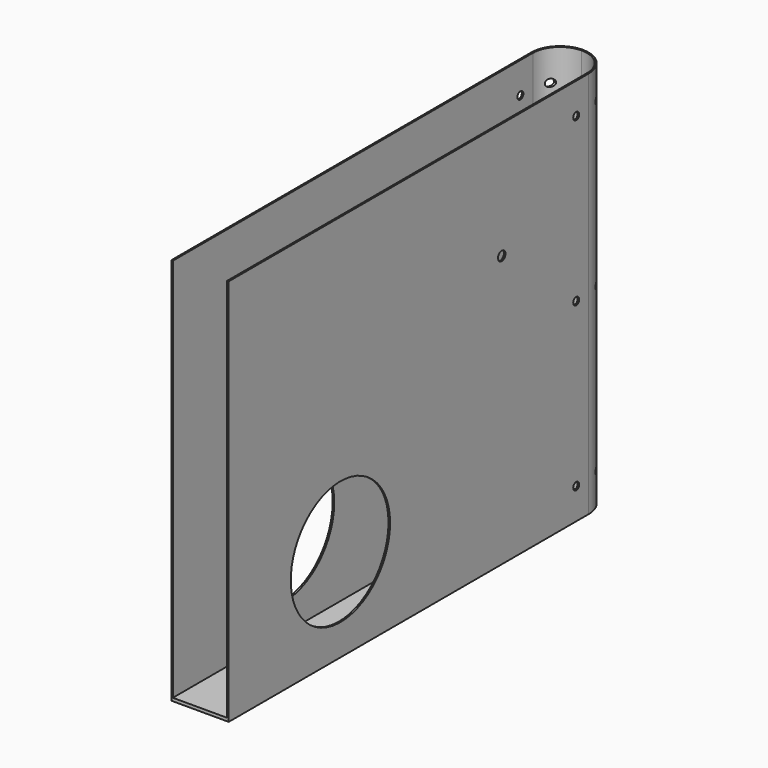
from build123d import *

# Parameters (mm, degrees)
F1_DEPTH      = 250
F2_W          = 272.5
F2_H          = 2
F3_DEPTH      = 37
F5_DEPTH      = 37.001
F6_R          = 2.4
F7_DEPTH      = 25
F7_DEPTH_BACK = 25


with BuildPart() as f1:
    # F0 (on Top) → F1 (new body)
    with BuildSketch(Plane.XY):
        with BuildLine():
            Line((18.5, -290), (18.5, 0))
            ThreePointArc((18.5, 0), (0, 18.5), (-18.5, 0))
            Line((-18.5, 0), (-18.5, -290))
            Line((-18.5, -290), (-17.5, -290))
            Line((-17.5, -290), (-17.5, 0))
            ThreePointArc((-17.5, 0), (-12.3743686708, 12.3743686708), (0, 17.5))
            ThreePointArc((0, 17.5), (12.3743686708, 12.3743686708), (17.5, 0))
            Line((17.5, 0), (17.5, -290))
            Line((17.5, -290), (18.5, -290))
        make_face()
    extrude(amount=F1_DEPTH)

    # F2 (on face) → F3 (join)
    with BuildSketch(Plane(origin=(-18.5, 0, 0), x_dir=(0, -1, 0), z_dir=(-1, 0, 0))):
        with Locations((153.75, 1)):
            Rectangle(F2_W, F2_H)
    extrude(amount=-F3_DEPTH)

    # F4 (on face) → F5 (cut, through all)
    with BuildSketch(Plane(origin=(-18.5, 0, 0), x_dir=(0, -1, 0), z_dir=(-1, 0, 0))):
        with BuildLine():
            ThreePointArc((240, 60), (200, 100), (160, 60))
            Line((160, 60), (240, 60))
        make_face()
        with BuildLine():
            Line((240, 60), (160, 60))
            ThreePointArc((160, 60), (200, 20), (240, 60))
        make_face()
        with BuildLine():
            ThreePointArc((67, 175), (70, 172), (73, 175))
            Line((73, 175), (67, 175))
        make_face()
        with BuildLine():
            Line((67, 175), (73, 175))
            ThreePointArc((73, 175), (70, 178), (67, 175))
        make_face()
    extrude(amount=-F5_DEPTH, mode=Mode.SUBTRACT)

    # F6 (on Right) → F7 (cut, two sides)
    with BuildSketch(Plane.YZ) as f7_sk:
        with Locations((-10, 20)):
            Circle(F6_R)
        with Locations((10, 20)):
            Circle(F6_R)
        with Locations((-10, 125)):
            Circle(F6_R)
        with BuildLine():
            ThreePointArc((12.4, 125), (10, 127.4), (7.6, 125))
            ThreePointArc((7.6, 125), (10, 122.6), (12.4, 125))
        make_face()
        with Locations((10, 230)):
            Circle(F6_R)
        with Locations((-10, 230)):
            Circle(F6_R)
    extrude(amount=-F7_DEPTH, mode=Mode.SUBTRACT)
    extrude(f7_sk.sketch, amount=F7_DEPTH_BACK, mode=Mode.SUBTRACT)


solid = f1.part
